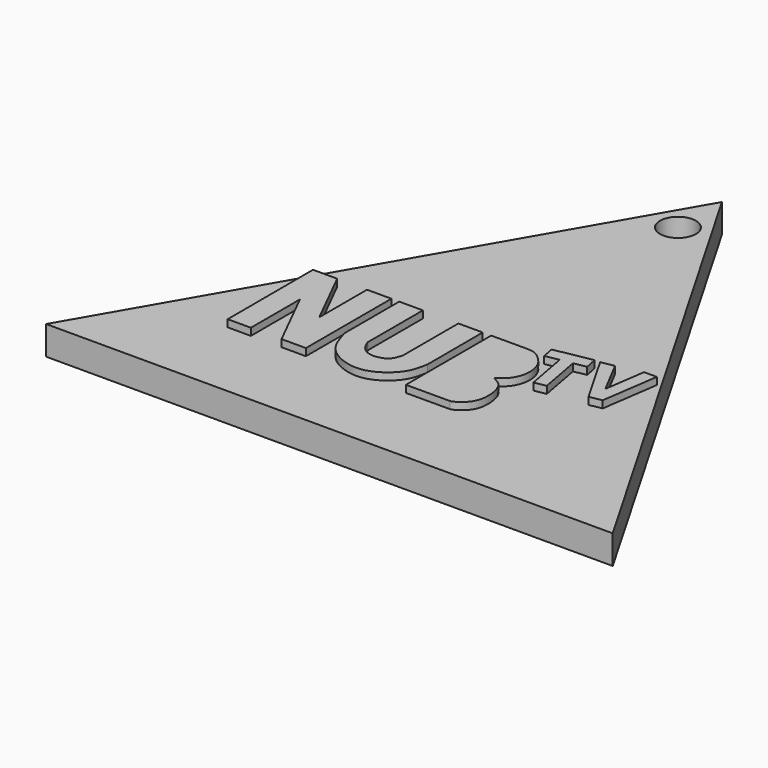
from build123d import *

# Parameters (mm, degrees)
F0_R     = 2.5
F1_DEPTH = 4
F2_DEPTH = 5


with BuildPart() as f1:
    # F0 (on Top) → F1 (new body)
    with BuildSketch(Plane.XY):
        Polygon((40.2249097824, -33.2845642026), (0.7910795393, 35.0014455616), (-38.6101437698, -33.2845642026), align=None)
        Polygon((-22.711256519, -21.5691067278), (-22.7432120591, -6.6985134035), (-19.3776357919, -6.6985134035), (-15.2243720368, -15.0050409138), (-15.2243720368, -6.6985134035), (-11.8349278346, -6.6985134035), (-11.8349278346, -21.5691067278), (-15.2243720368, -21.5691067278), (-19.4941520691, -13.0295466632), (-19.4941520691, -21.5691067278), align=None, mode=Mode.SUBTRACT)
        with BuildLine():
            Line((-10.7459938154, -16.2890758365), (-10.7459938154, -6.6985134035))
            Line((-10.7459938154, -6.6985134035), (-7.4523133226, -6.6985134035))
            Line((-7.4523133226, -6.6985134035), (-7.4523133226, -16.2890758365))
            add(Edge.make_bspline(
                [(-7.4523133226, -16.2890758365), (-7.104227785, -17.3948928714), (-5.9321515736, -18.6541323706), (-3.5113082752, -18.2625094616), (-2.8233632911, -17.5249073654), (-2.5152703747, -16.2890758365)],
                knots=[0, 0, 0, 0, 0.3606281433, 0.6689083068, 1, 1, 1, 1], degree=3))
            Line((-2.5152703747, -16.2890758365), (-2.5152703747, -6.6985134035))
            Line((-2.5152703747, -6.6985134035), (0.8672598962, -6.6985134035))
            Line((0.8672598962, -6.6985134035), (0.8878691346, -16.2890758365))
            add(Edge.make_bspline(
                [(-10.7459938154, -16.2890758365), (-10.3705837507, -17.509364821), (-9.6394174556, -19.9654712701), (-6.2613093559, -21.814346697), (-2.9111281737, -21.881232593), (0.377460507, -19.2509243312), (0.7230390529, -17.2143038611), (0.8878691346, -16.2890758365)],
                knots=[0, 0, 0, 0, 0.2082712182, 0.4110782797, 0.6044961637, 0.8162808924, 1, 1, 1, 1], degree=3))
        make_face(mode=Mode.SUBTRACT)
        with BuildLine():
            Line((2.0429338329, -21.5279925615), (2.0429338329, -6.6985134035))
            Line((2.0429338329, -6.6985134035), (7.0795952342, -6.6859629005))
            add(Edge.make_bspline(
                [(8.4721948951, -14.2592713237), (8.8166718167, -14.0775473446), (9.597126329, -13.6656191693), (10.625602672, -12.0765617302), (10.725820643, -10.3211699754), (10.3492292442, -8.971041011), (9.739299995, -8.0281158452), (8.29926641, -6.6774752044), (7.2941144713, -6.7181425698), (7.0795952342, -6.6859629005)],
                knots=[0, 0, 0, 0, 0.1315192433, 0.2913220213, 0.4480658363, 0.5848317356, 0.7113085718, 0.8762590374, 1, 1, 1, 1], degree=3))
            add(Edge.make_bspline(
                [(8.1550851464, -21.5148581093), (8.5888431896, -21.4379623141), (9.5782273725, -20.807535605), (10.3533522247, -19.7559345188), (10.7186253304, -18.4311716851), (10.5557425558, -16.283646946), (9.7449551739, -14.7909007915), (8.402703745, -14.2505356974), (8.4661261596, -14.2585018978), (8.4721948951, -14.2592713237)],
                knots=[0, 0, 0, 0, 0.1651828804, 0.3170172375, 0.4709365332, 0.6640285426, 0.8442617499, 0.9854400695, 1, 1, 1, 1], degree=3))
            Line((8.1550851464, -21.5148581093), (2.0429338329, -21.5279925615))
        make_face(mode=Mode.SUBTRACT)
        Polygon((9.2211738229, -5.1535996608), (14.4397988915, -4.1901608929), (14.7794780436, -5.9196936403), (13.0546678668, -6.2381202315), (14.1462272019, -12.1507314943), (12.5199611083, -12.4509653262), (11.4205734342, -6.4959505735), (9.5333156725, -6.8443674972), align=None, mode=Mode.SUBTRACT)
        Polygon((20.3966814885, -3.0428403988), (22.1730712801, -3.0428403988), (21.0180655122, -11.0216652974), (19.2980058122, -11.3392148773), (15.1990214363, -4.1901608929), (17.0081812404, -3.856162058), (19.5704009384, -8.7508186698), align=None, mode=Mode.SUBTRACT)
        with Locations((0.7910795393, 27.3540709168)):
            Circle(F0_R, mode=Mode.SUBTRACT)
    extrude(amount=F1_DEPTH)


with BuildPart() as f2:
    # F0 (on Top) → F2 (new body)
    with BuildSketch(Plane.XY):
        Polygon((-19.3776357919, -6.6985134035), (-22.7432120591, -6.6985134035), (-22.711256519, -21.5691067278), (-19.4941520691, -21.5691067278), (-19.4941520691, -13.0295466632), (-15.2243720368, -21.5691067278), (-11.8349278346, -21.5691067278), (-11.8349278346, -6.6985134035), (-15.2243720368, -6.6985134035), (-15.2243720368, -15.0050409138), align=None)
    extrude(amount=F2_DEPTH)


with BuildPart() as f2b:
    # F0 (on Top) → F2, piece 2 (new body)
    with BuildSketch(Plane.XY):
        with BuildLine():
            Line((-7.4523133226, -6.6985134035), (-10.7459938154, -6.6985134035))
            Line((-10.7459938154, -6.6985134035), (-10.7459938154, -16.2890758365))
            add(Edge.make_bspline(
                [(-10.7459938154, -16.2890758365), (-10.3705837507, -17.509364821), (-9.6394174556, -19.9654712701), (-6.2613093559, -21.814346697), (-2.9111281737, -21.881232593), (0.377460507, -19.2509243312), (0.7230390529, -17.2143038611), (0.8878691346, -16.2890758365)],
                knots=[0, 0, 0, 0, 0.2082712182, 0.4110782797, 0.6044961637, 0.8162808924, 1, 1, 1, 1], degree=3))
            Line((0.8878691346, -16.2890758365), (0.8672598962, -6.6985134035))
            Line((0.8672598962, -6.6985134035), (-2.5152703747, -6.6985134035))
            Line((-2.5152703747, -6.6985134035), (-2.5152703747, -16.2890758365))
            add(Edge.make_bspline(
                [(-7.4523133226, -16.2890758365), (-7.104227785, -17.3948928714), (-5.9321515736, -18.6541323706), (-3.5113082752, -18.2625094616), (-2.8233632911, -17.5249073654), (-2.5152703747, -16.2890758365)],
                knots=[0, 0, 0, 0, 0.3606281433, 0.6689083068, 1, 1, 1, 1], degree=3))
            Line((-7.4523133226, -16.2890758365), (-7.4523133226, -6.6985134035))
        make_face()
    extrude(amount=F2_DEPTH)


with BuildPart() as f2c:
    # F0 (on Top) → F2, piece 3 (new body)
    with BuildSketch(Plane.XY):
        with BuildLine():
            Line((7.0795952342, -6.6859629005), (2.0429338329, -6.6985134035))
            Line((2.0429338329, -6.6985134035), (2.0429338329, -21.5279925615))
            Line((2.0429338329, -21.5279925615), (8.1550851464, -21.5148581093))
            add(Edge.make_bspline(
                [(8.1550851464, -21.5148581093), (8.5888431896, -21.4379623141), (9.5782273725, -20.807535605), (10.3533522247, -19.7559345188), (10.7186253304, -18.4311716851), (10.5557425558, -16.283646946), (9.7449551739, -14.7909007915), (8.402703745, -14.2505356974), (8.4661261596, -14.2585018978), (8.4721948951, -14.2592713237)],
                knots=[0, 0, 0, 0, 0.1651828804, 0.3170172375, 0.4709365332, 0.6640285426, 0.8442617499, 0.9854400695, 1, 1, 1, 1], degree=3))
            add(Edge.make_bspline(
                [(8.4721948951, -14.2592713237), (8.8166718167, -14.0775473446), (9.597126329, -13.6656191693), (10.625602672, -12.0765617302), (10.725820643, -10.3211699754), (10.3492292442, -8.971041011), (9.739299995, -8.0281158452), (8.29926641, -6.6774752044), (7.2941144713, -6.7181425698), (7.0795952342, -6.6859629005)],
                knots=[0, 0, 0, 0, 0.1315192433, 0.2913220213, 0.4480658363, 0.5848317356, 0.7113085718, 0.8762590374, 1, 1, 1, 1], degree=3))
        make_face()
    extrude(amount=F2_DEPTH)


with BuildPart() as f2d:
    # F0 (on Top) → F2, piece 4 (new body)
    with BuildSketch(Plane.XY):
        Polygon((14.7794780436, -5.9196936403), (14.4397988915, -4.1901608929), (9.2211738229, -5.1535996608), (9.5333156725, -6.8443674972), (11.4205734342, -6.4959505735), (12.5199611083, -12.4509653262), (14.1462272019, -12.1507314943), (13.0546678668, -6.2381202315), align=None)
    extrude(amount=F2_DEPTH)


with BuildPart() as f2e:
    # F0 (on Top) → F2, piece 5 (new body)
    with BuildSketch(Plane.XY):
        Polygon((21.0180655122, -11.0216652974), (22.1730712801, -3.0428403988), (20.3966814885, -3.0428403988), (19.5704009384, -8.7508186698), (17.0081812404, -3.856162058), (15.1990214363, -4.1901608929), (19.2980058122, -11.3392148773), align=None)
    extrude(amount=F2_DEPTH)


solid = Compound([f1.part, f2.part, f2b.part, f2c.part, f2d.part, f2e.part])
